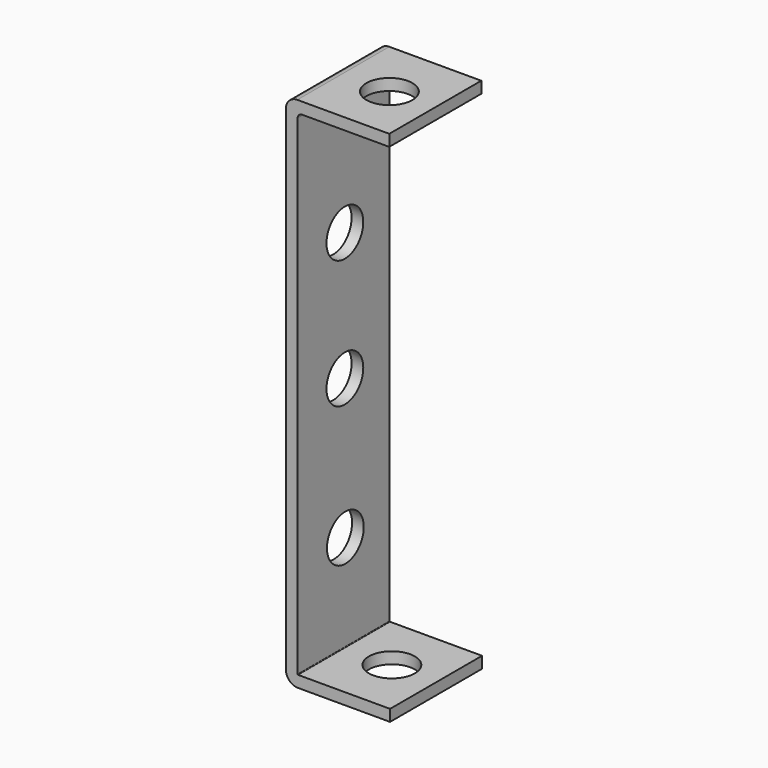
from build123d import *

# Parameters (mm, degrees)
CYLINDER030_R               = 2
CYLINDER030_DEPTH           = 10
CYLINDER030_PITCH_ANGLE     = 90
CYLINDER030_PLACEMENT_ANGLE = 7e-06
CYLINDER031_R               = 2
CYLINDER031_DEPTH           = 10
CYLINDER031_PITCH_ANGLE     = 90
CYLINDER031_PLACEMENT_ANGLE = 7e-06
CYLINDER026_R               = 2
CYLINDER026_DEPTH           = 2
CYLINDER026_ROLL_ANGLE      = -88.507054
CYLINDER026_PITCH_ANGLE     = -87.01751
CYLINDER026_PLACEMENT_ANGLE = -92.244015
CYLINDER028_R               = 2
CYLINDER028_DEPTH           = 2
CYLINDER028_PLACEMENT_ANGLE = 90.00001
CYLINDER029_R               = 2
CYLINDER029_DEPTH           = 2
CYLINDER029_ROLL_ANGLE      = 90
CYLINDER027_R               = 2
CYLINDER027_DEPTH           = 2
CYLINDER027_ROLL_ANGLE      = 90
CYLINDER025_R               = 2
CYLINDER025_DEPTH           = 2
CYLINDER025_ROLL_ANGLE      = -88.507054
CYLINDER025_PITCH_ANGLE     = -87.01751
CYLINDER025_PLACEMENT_ANGLE = -92.244015
PAD006_DEPTH                = 10
CUT028_PITCH_ANGLE          = 90
CUT028_PLACEMENT_ANGLE      = -89.999993


with BuildPart() as cylinder030:
    # Cylinder030 → Cylinder030 (new body)
    with BuildSketch(Plane.XY):
        Circle(CYLINDER030_R)
    extrude(amount=CYLINDER030_DEPTH)


with BuildPart() as cylinder030_1:
    # Cylinder030 pitch: moved
    add(cylinder030.part.rotate(Axis((0, 0, 0), (0, 1, 0)), CYLINDER030_PITCH_ANGLE))


with BuildPart() as cylinder030_2:
    # Cylinder030 placement: moved
    add(cylinder030_1.part.moved(Location((15.49, 3.9, 4.87))).rotate(Axis((15.49, 3.9, 4.87), (0, 0, 1)), CYLINDER030_PLACEMENT_ANGLE))


with BuildPart() as cylinder031:
    # Cylinder031 → Cylinder031 (new body)
    with BuildSketch(Plane.XY):
        Circle(CYLINDER031_R)
    extrude(amount=CYLINDER031_DEPTH)


with BuildPart() as cylinder031_1:
    # Cylinder031 pitch: moved
    add(cylinder031.part.rotate(Axis((0, 0, 0), (0, 1, 0)), CYLINDER031_PITCH_ANGLE))


with BuildPart() as cylinder031_2:
    # Cylinder031 placement: moved
    add(cylinder031_1.part.moved(Location((-28.4147, 3.9, 5.14))).rotate(Axis((-28.4147, 3.9, 5.14), (0, 0, 1)), CYLINDER031_PLACEMENT_ANGLE))


with BuildPart() as cylinder026:
    # Cylinder026 → Cylinder026 (new body)
    with BuildSketch(Plane.XY):
        Circle(CYLINDER026_R)
    extrude(amount=CYLINDER026_DEPTH)


with BuildPart() as cylinder026_1:
    # Cylinder026 roll: moved
    add(cylinder026.part.rotate(Axis((0, 0, 0), (1, 0, 0)), CYLINDER026_ROLL_ANGLE))


with BuildPart() as cylinder026_2:
    # Cylinder026 pitch: moved
    add(cylinder026_1.part.rotate(Axis((0, 0, 0), (0, 1, 0)), CYLINDER026_PITCH_ANGLE))


with BuildPart() as cylinder026_3:
    # Cylinder026 placement: moved
    add(cylinder026_2.part.moved(Location((-26, 5.29, 4.9))).rotate(Axis((-26, 5.29, 4.9), (0, 0, 1)), CYLINDER026_PLACEMENT_ANGLE))


with BuildPart() as cylinder028:
    # Cylinder028 → Cylinder028 (new body)
    with BuildSketch(Plane.XY):
        Circle(CYLINDER028_R)
    extrude(amount=CYLINDER028_DEPTH)


with BuildPart() as cylinder028_1:
    # Cylinder028 placement: moved
    add(cylinder028.part.moved(Location((-11.1555, 0, 4.86401))).rotate(Axis((-11.1555, 0, 4.86401), (1, 0, 0)), CYLINDER028_PLACEMENT_ANGLE))


with BuildPart() as cylinder029:
    # Cylinder029 → Cylinder029 (new body)
    with BuildSketch(Plane.XY):
        Circle(CYLINDER029_R)
    extrude(amount=CYLINDER029_DEPTH)


with BuildPart() as cylinder029_1:
    # Cylinder029 roll: moved
    add(cylinder029.part.rotate(Axis((0, 0, 0), (1, 0, 0)), CYLINDER029_ROLL_ANGLE))


with BuildPart() as cylinder029_2:
    # Cylinder029 placement: moved
    add(cylinder029_1.part.moved(Location((0, 0, 4.86401))))


with BuildPart() as cylinder027:
    # Cylinder027 → Cylinder027 (new body)
    with BuildSketch(Plane.XY):
        Circle(CYLINDER027_R)
    extrude(amount=CYLINDER027_DEPTH)


with BuildPart() as cylinder027_1:
    # Cylinder027 roll: moved
    add(cylinder027.part.rotate(Axis((0, 0, 0), (1, 0, 0)), CYLINDER027_ROLL_ANGLE))


with BuildPart() as cylinder027_2:
    # Cylinder027 placement: moved
    add(cylinder027_1.part.moved(Location((12.2129, 0, 4.81114))))


with BuildPart() as cylinder025:
    # Cylinder025 → Cylinder025 (new body)
    with BuildSketch(Plane.XY):
        Circle(CYLINDER025_R)
    extrude(amount=CYLINDER025_DEPTH)


with BuildPart() as cylinder025_1:
    # Cylinder025 roll: moved
    add(cylinder025.part.rotate(Axis((0, 0, 0), (1, 0, 0)), CYLINDER025_ROLL_ANGLE))


with BuildPart() as cylinder025_2:
    # Cylinder025 pitch: moved
    add(cylinder025_1.part.rotate(Axis((0, 0, 0), (0, 1, 0)), CYLINDER025_PITCH_ANGLE))


with BuildPart() as cylinder025_3:
    # Cylinder025 placement: moved
    add(cylinder025_2.part.moved(Location((25, 5.38, 4.9))).rotate(Axis((25, 5.38, 4.9), (0, 0, 1)), CYLINDER025_PLACEMENT_ANGLE))


with BuildPart() as cut028:
    # Sketch007 → Pad006 (new body)
    with BuildSketch(Plane.XY):
        with BuildLine():
            Line((20.546084, -1.208272), (-22.415471, -1.208272))
            ThreePointArc((-23.400725, -0.223018), (-23.112151, -0.919698), (-22.415471, -1.208272))
            Line((-23.400725, 7.776982), (-23.400725, -0.223018))
            Line((-23.400725, 7.776982), (-22.400725, 7.776982))
            Line((-22.400725, 7.776982), (-22.400725, 0.197829))
            ThreePointArc((-22.400725, 0.197829), (-22.286166, -0.07874), (-22.009596, -0.193299))
            Line((-22.009596, -0.193299), (20.555186, -0.193299))
            ThreePointArc((20.555186, -0.193299), (20.586324, -0.180401), (20.599222, -0.149263))
            Line((20.599222, 7.844865), (20.599222, -0.149263))
            Line((21.599222, 7.844865), (20.599222, 7.844865))
            Line((21.599222, 7.844865), (21.599222, -0.155135))
            ThreePointArc((20.546084, -1.208272), (21.290765, -0.899815), (21.599222, -0.155135))
        make_face()
    extrude(amount=PAD006_DEPTH)

    # Cut005: cut Cylinder025
    add(cylinder025_3.part, mode=Mode.SUBTRACT)

    # Cut006: cut Cylinder027
    add(cylinder027_2.part, mode=Mode.SUBTRACT)

    # Cut007: cut Cylinder029
    add(cylinder029_2.part, mode=Mode.SUBTRACT)

    # Cut008: cut Cylinder028
    add(cylinder028_1.part, mode=Mode.SUBTRACT)

    # Cut009: cut Cylinder026
    add(cylinder026_3.part, mode=Mode.SUBTRACT)

    # Cut018: cut Cylinder031
    add(cylinder031_2.part, mode=Mode.SUBTRACT)

    # Cut028: cut Cylinder030
    add(cylinder030_2.part, mode=Mode.SUBTRACT)


with BuildPart() as cut028_1:
    # Cut028 pitch: moved
    add(cut028.part.rotate(Axis((0, 0, 0), (0, 1, 0)), CUT028_PITCH_ANGLE))


with BuildPart() as cut028_2:
    # Cut028 placement: moved
    add(cut028_1.part.moved(Location((-113.800004, 54.599997, 75.957173))).rotate(Axis((-113.800004, 54.599997, 75.957173), (0, 0, 1)), CUT028_PLACEMENT_ANGLE))


solid = cut028_2.part
